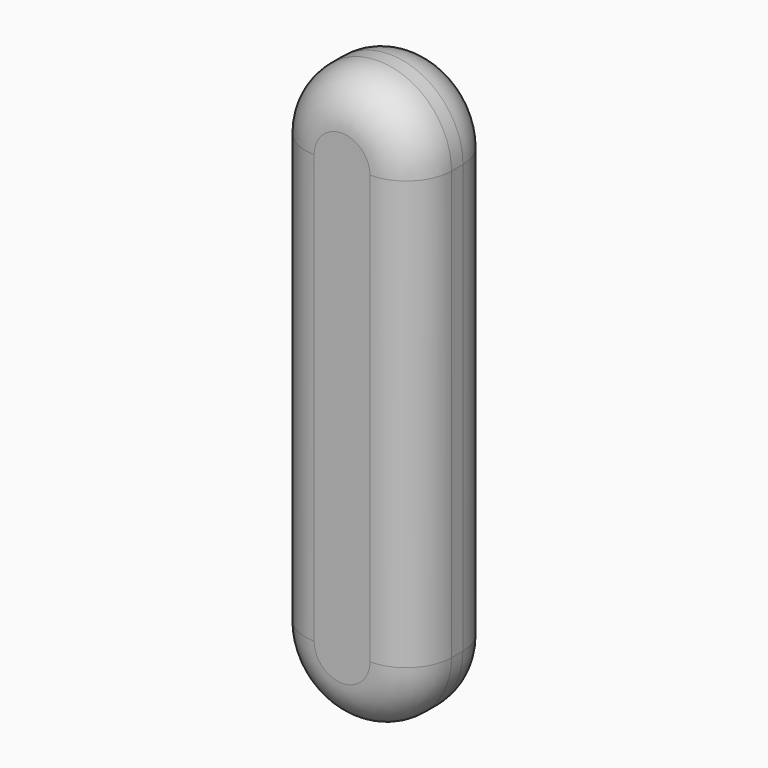
from build123d import *

# Parameters (mm, degrees)
F1_DEPTH = 7.112
F2_R     = 3.0734


with BuildPart() as f1:
    # F0 (on Front) → F1 (new body)
    with BuildSketch(Plane.XZ):
        with BuildLine():
            ThreePointArc((-4.623045, -4.602544), (0.345085, 0.365587), (5.313216, -4.602544))
            Line((5.313216, -4.602544), (5.313216, 5.577769))
            ThreePointArc((5.313216, 5.577769), (0.345085, 10.5459), (-4.623045, 5.577769))
            Line((-4.623045, 5.577769), (-4.623045, 2.380263))
            Line((-4.623045, 2.380263), (-4.623045, -4.602544))
        make_face()
        with BuildLine():
            ThreePointArc((-4.623045, -4.602544), (0.345085, -9.570675), (5.313216, -4.602544))
            Line((5.313216, -4.602544), (-4.623045, -4.602544))
        make_face()
        with BuildLine():
            Line((-4.623045, -4.602544), (5.313216, -4.602544))
            ThreePointArc((5.313216, -4.602544), (0.345085, 0.365587), (-4.623045, -4.602544))
        make_face()
        with BuildLine():
            ThreePointArc((-4.623045, -23.500242), (0.345085, -28.468372), (5.313216, -23.500242))
            Line((5.313216, -23.500242), (5.313216, -4.602544))
            ThreePointArc((5.313216, -4.602544), (0.345085, -9.570675), (-4.623045, -4.602544))
            Line((-4.623045, -4.602544), (-4.623045, -23.500242))
        make_face()
    extrude(amount=F1_DEPTH)

    # F2
    f2_edges = [f1.edges().sort_by_distance(p)[0] for p in [
        (5.313216, -7.112, -8.961236),
        (5.313216, 0, -8.961236),
        (0.345085, -7.112, 10.5459),
        (0.345085, 0, 10.5459),
        (0.345085, -7.112, -28.468372),
        (-4.623045, 0, -8.961236),
        (-4.623045, -7.112, -8.961236),
    ]]
    fillet(f2_edges, radius=F2_R)


solid = f1.part
